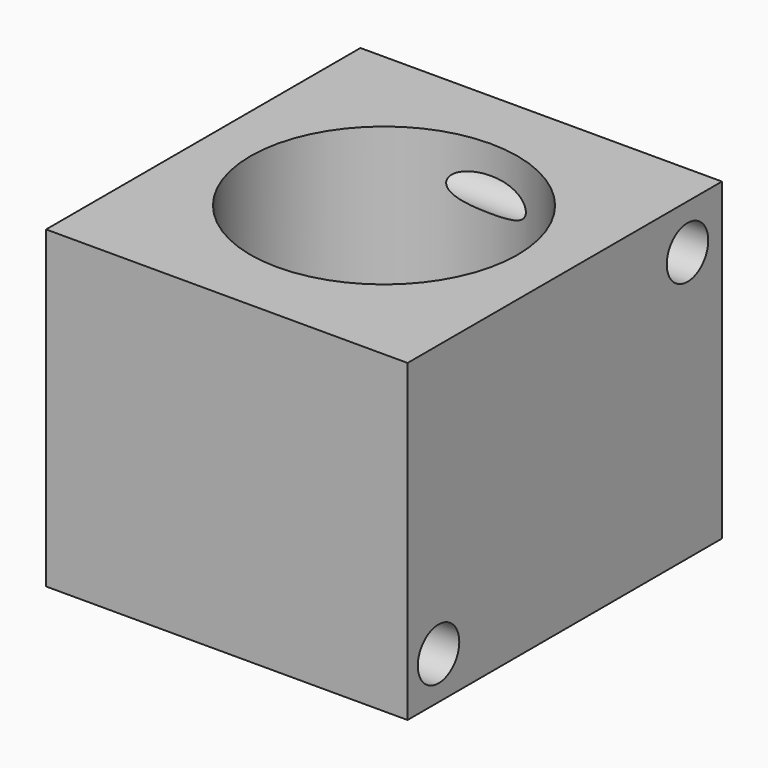
from build123d import *

# Parameters (mm, degrees)
F0_W     = 23
F0_H     = 25
F0_R     = 8.5
F1_DEPTH = 20
F3_D     = 3.3


with BuildPart() as f1:
    # F0 (on Top) → F1 (new body)
    with BuildSketch(Plane.XY):
        with Locations((-24.353659, 12.5)):
            Rectangle(F0_W, F0_H)
        with Locations((-24.353659, 12.5)):
            Circle(F0_R, mode=Mode.SUBTRACT)
    extrude(amount=F1_DEPTH)

    # F3 (through all)
    with Locations(Plane(origin=(-35.853659, 0, 0), x_dir=(0, -1, 0), z_dir=(-1, 0, 0))):
        with Locations((-2.461657, 2.704677), (-22.262799, 17.144853), (-22.262799, 17.144853)):
            Hole(F3_D / 2)


solid = f1.part
